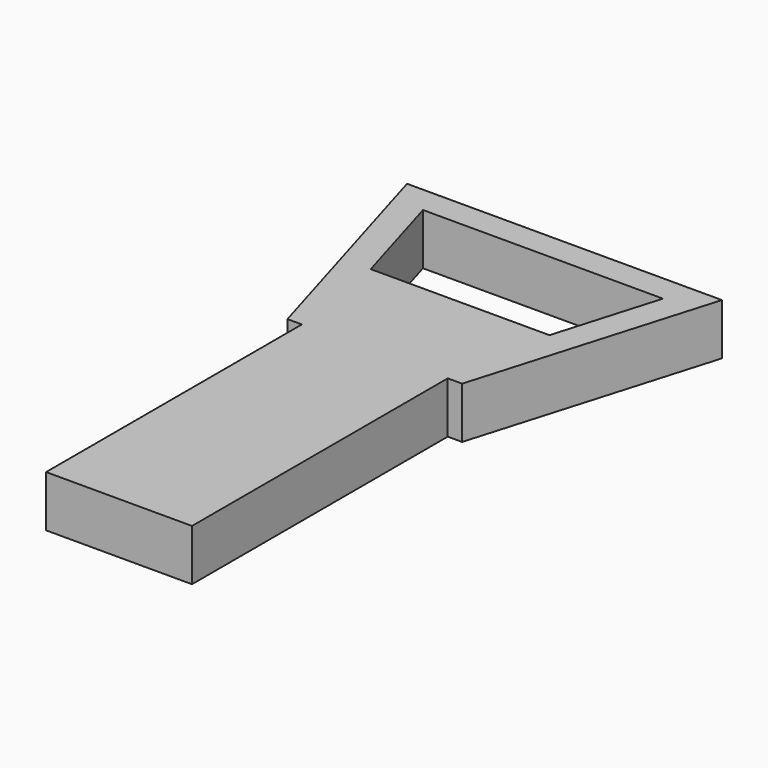
from build123d import *

# Parameters (mm, degrees)
F1_DEPTH = 9.8
F2_W     = 22.898962
F2_H     = 1.623713
F3_DEPTH = 18


with BuildPart() as f1:
    # F0 (on Top) → F1 (new body)
    with BuildSketch(Plane.XY):
        Polygon((30.061033, 31.619072), (-30.061033, 31.619072), (-16.680207, -13.655773), (-13.930722, -13.655773), (0, -13.655773), (13.930722, -13.655773), (16.680207, -13.655773), align=None)
        Polygon((-17.066102, 6.705488), (-22.912372, 26.4867), (22.912372, 26.4867), (17.066102, 6.705488), (0, 6.705488), align=None, mode=Mode.SUBTRACT)
        Polygon((0, -13.655773), (-13.930722, -13.655773), (-13.930722, -74.694335), (0, -74.694335), (13.930722, -74.694335), (13.930722, -13.655773), align=None)
    extrude(amount=F1_DEPTH)

    # F2 (on face) → F3 (cut)
    with BuildSketch(Plane(origin=(0, 6.705488, 0), x_dir=(-1, 0, 0), z_dir=(0, 1, 0))):
        with Locations((-0.274213, 4.465245)):
            Rectangle(F2_W, F2_H)
    extrude(amount=-F3_DEPTH, mode=Mode.SUBTRACT)


solid = f1.part
